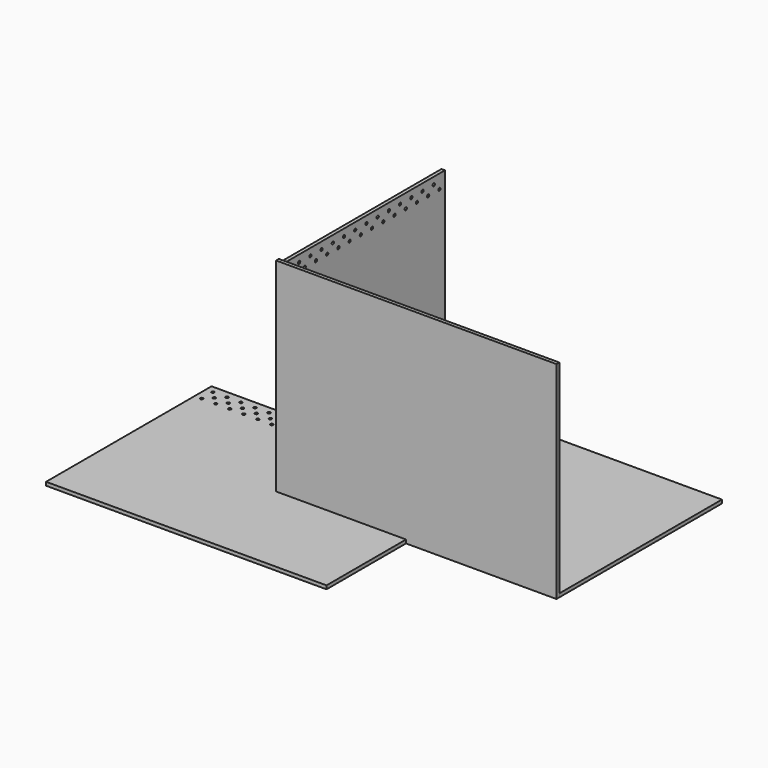
from build123d import *

# Parameters (mm, degrees)
F0_W      = 400
F0_H      = 100
F0_R      = 2
F1_DEPTH  = 5
F2_W      = 400
F2_H      = 200
F2_R      = 2
F3_DEPTH  = 5
F4_W      = 290
F4_H      = 290
F4_R      = 2
F5_DEPTH  = 5
F6_W      = 400
F6_H      = 290
F7_DEPTH  = 5
F8_W      = 400
F8_H      = 295
F9_DEPTH  = 5
F10_W     = 400
F10_H     = 295
F10_R     = 2
F11_DEPTH = 5
F13_DEPTH = 48


with BuildPart() as f1:
    # F0 (on Front) → F1 (new body)
    with BuildSketch(Plane.XZ):
        with Locations((200, 50)):
            Rectangle(F0_W, F0_H)
        with Locations((10, 90)):
            Circle(F0_R, mode=Mode.SUBTRACT)
        with Locations((20, 90)):
            Circle(F0_R, mode=Mode.SUBTRACT)
        with Locations((30, 90)):
            Circle(F0_R, mode=Mode.SUBTRACT)
        with Locations((40, 90)):
            Circle(F0_R, mode=Mode.SUBTRACT)
        with Locations((110, 90)):
            Circle(F0_R, mode=Mode.SUBTRACT)
        with Locations((120, 90)):
            Circle(F0_R, mode=Mode.SUBTRACT)
        with Locations((130, 90)):
            Circle(F0_R, mode=Mode.SUBTRACT)
        with Locations((140, 90)):
            Circle(F0_R, mode=Mode.SUBTRACT)
        with Locations((150, 90)):
            Circle(F0_R, mode=Mode.SUBTRACT)
        with Locations((160, 90)):
            Circle(F0_R, mode=Mode.SUBTRACT)
        with Locations((170, 90)):
            Circle(F0_R, mode=Mode.SUBTRACT)
        with Locations((180, 90)):
            Circle(F0_R, mode=Mode.SUBTRACT)
        with Locations((190, 90)):
            Circle(F0_R, mode=Mode.SUBTRACT)
        with Locations((200, 90)):
            Circle(F0_R, mode=Mode.SUBTRACT)
        with Locations((210, 90)):
            Circle(F0_R, mode=Mode.SUBTRACT)
        with Locations((220, 90)):
            Circle(F0_R, mode=Mode.SUBTRACT)
        with Locations((230, 90)):
            Circle(F0_R, mode=Mode.SUBTRACT)
        with Locations((240, 90)):
            Circle(F0_R, mode=Mode.SUBTRACT)
        with Locations((250, 90)):
            Circle(F0_R, mode=Mode.SUBTRACT)
        with Locations((260, 90)):
            Circle(F0_R, mode=Mode.SUBTRACT)
        with Locations((270, 90)):
            Circle(F0_R, mode=Mode.SUBTRACT)
        with Locations((280, 90)):
            Circle(F0_R, mode=Mode.SUBTRACT)
        with Locations((290, 90)):
            Circle(F0_R, mode=Mode.SUBTRACT)
        with Locations((360, 90)):
            Circle(F0_R, mode=Mode.SUBTRACT)
        with Locations((370, 90)):
            Circle(F0_R, mode=Mode.SUBTRACT)
        with Locations((380, 90)):
            Circle(F0_R, mode=Mode.SUBTRACT)
        with Locations((390, 90)):
            Circle(F0_R, mode=Mode.SUBTRACT)
    extrude(amount=F1_DEPTH)


with BuildPart() as f3:
    # F2 (on Front) → F3 (new body)
    with BuildSketch(Plane.XZ):
        with Locations((200, 100)):
            Rectangle(F2_W, F2_H)
        with Locations((20, 180)):
            Circle(F2_R, mode=Mode.SUBTRACT)
        with Locations((40, 180)):
            Circle(F2_R, mode=Mode.SUBTRACT)
        with Locations((10, 190)):
            Circle(F2_R, mode=Mode.SUBTRACT)
        with Locations((30, 190)):
            Circle(F2_R, mode=Mode.SUBTRACT)
        with Locations((60, 180)):
            Circle(F2_R, mode=Mode.SUBTRACT)
        with Locations((80, 180)):
            Circle(F2_R, mode=Mode.SUBTRACT)
        with Locations((50, 190)):
            Circle(F2_R, mode=Mode.SUBTRACT)
        with Locations((70, 190)):
            Circle(F2_R, mode=Mode.SUBTRACT)
        with Locations((90, 190)):
            Circle(F2_R, mode=Mode.SUBTRACT)
        with Locations((100, 180)):
            Circle(F2_R, mode=Mode.SUBTRACT)
        with Locations((120, 180)):
            Circle(F2_R, mode=Mode.SUBTRACT)
        with Locations((140, 180)):
            Circle(F2_R, mode=Mode.SUBTRACT)
        with Locations((110, 190)):
            Circle(F2_R, mode=Mode.SUBTRACT)
        with Locations((130, 190)):
            Circle(F2_R, mode=Mode.SUBTRACT)
        with Locations((160, 180)):
            Circle(F2_R, mode=Mode.SUBTRACT)
        with Locations((180, 180)):
            Circle(F2_R, mode=Mode.SUBTRACT)
        with Locations((150, 190)):
            Circle(F2_R, mode=Mode.SUBTRACT)
        with Locations((170, 190)):
            Circle(F2_R, mode=Mode.SUBTRACT)
        with Locations((190, 190)):
            Circle(F2_R, mode=Mode.SUBTRACT)
        with Locations((200, 180)):
            Circle(F2_R, mode=Mode.SUBTRACT)
        with Locations((220, 180)):
            Circle(F2_R, mode=Mode.SUBTRACT)
        with Locations((240, 180)):
            Circle(F2_R, mode=Mode.SUBTRACT)
        with Locations((210, 190)):
            Circle(F2_R, mode=Mode.SUBTRACT)
        with Locations((230, 190)):
            Circle(F2_R, mode=Mode.SUBTRACT)
        with Locations((260, 180)):
            Circle(F2_R, mode=Mode.SUBTRACT)
        with Locations((280, 180)):
            Circle(F2_R, mode=Mode.SUBTRACT)
        with Locations((250, 190)):
            Circle(F2_R, mode=Mode.SUBTRACT)
        with Locations((270, 190)):
            Circle(F2_R, mode=Mode.SUBTRACT)
        with Locations((290, 190)):
            Circle(F2_R, mode=Mode.SUBTRACT)
        with Locations((300, 180)):
            Circle(F2_R, mode=Mode.SUBTRACT)
        with Locations((320, 180)):
            Circle(F2_R, mode=Mode.SUBTRACT)
        with Locations((340, 180)):
            Circle(F2_R, mode=Mode.SUBTRACT)
        with Locations((310, 190)):
            Circle(F2_R, mode=Mode.SUBTRACT)
        with Locations((330, 190)):
            Circle(F2_R, mode=Mode.SUBTRACT)
        with Locations((360, 180)):
            Circle(F2_R, mode=Mode.SUBTRACT)
        with Locations((380, 180)):
            Circle(F2_R, mode=Mode.SUBTRACT)
        with Locations((350, 190)):
            Circle(F2_R, mode=Mode.SUBTRACT)
        with Locations((370, 190)):
            Circle(F2_R, mode=Mode.SUBTRACT)
        with Locations((390, 190)):
            Circle(F2_R, mode=Mode.SUBTRACT)
    extrude(amount=F3_DEPTH)


with BuildPart() as f5:
    # F4 (on Right) → F5 (new body)
    with BuildSketch(Plane.YZ):
        with Locations((145, 145)):
            Rectangle(F4_W, F4_H)
        with Locations((20, 270)):
            Circle(F4_R, mode=Mode.SUBTRACT)
        with Locations((10, 280)):
            Circle(F4_R, mode=Mode.SUBTRACT)
        with Locations((30, 280)):
            Circle(F4_R, mode=Mode.SUBTRACT)
        with Locations((40, 270)):
            Circle(F4_R, mode=Mode.SUBTRACT)
        with Locations((60, 270)):
            Circle(F4_R, mode=Mode.SUBTRACT)
        with Locations((50, 280)):
            Circle(F4_R, mode=Mode.SUBTRACT)
        with Locations((70, 280)):
            Circle(F4_R, mode=Mode.SUBTRACT)
        with Locations((80, 270)):
            Circle(F4_R, mode=Mode.SUBTRACT)
        with Locations((100, 270)):
            Circle(F4_R, mode=Mode.SUBTRACT)
        with Locations((90, 280)):
            Circle(F4_R, mode=Mode.SUBTRACT)
        with Locations((120, 270)):
            Circle(F4_R, mode=Mode.SUBTRACT)
        with Locations((140, 270)):
            Circle(F4_R, mode=Mode.SUBTRACT)
        with Locations((110, 280)):
            Circle(F4_R, mode=Mode.SUBTRACT)
        with Locations((130, 280)):
            Circle(F4_R, mode=Mode.SUBTRACT)
        with Locations((160, 270)):
            Circle(F4_R, mode=Mode.SUBTRACT)
        with Locations((180, 270)):
            Circle(F4_R, mode=Mode.SUBTRACT)
        with Locations((150, 280)):
            Circle(F4_R, mode=Mode.SUBTRACT)
        with Locations((170, 280)):
            Circle(F4_R, mode=Mode.SUBTRACT)
        with Locations((200, 270)):
            Circle(F4_R, mode=Mode.SUBTRACT)
        with Locations((190, 280)):
            Circle(F4_R, mode=Mode.SUBTRACT)
        with Locations((210, 280)):
            Circle(F4_R, mode=Mode.SUBTRACT)
        with Locations((220, 270)):
            Circle(F4_R, mode=Mode.SUBTRACT)
        with Locations((240, 270)):
            Circle(F4_R, mode=Mode.SUBTRACT)
        with Locations((230, 280)):
            Circle(F4_R, mode=Mode.SUBTRACT)
        with Locations((250, 280)):
            Circle(F4_R, mode=Mode.SUBTRACT)
        with Locations((260, 270)):
            Circle(F4_R, mode=Mode.SUBTRACT)
        with Locations((280, 270)):
            Circle(F4_R, mode=Mode.SUBTRACT)
        with Locations((270, 280)):
            Circle(F4_R, mode=Mode.SUBTRACT)
    extrude(amount=F5_DEPTH)


with BuildPart() as f7:
    # F6 (on Top) → F7 (new body)
    with BuildSketch(Plane.XY):
        with Locations((200, 145)):
            Rectangle(F6_W, F6_H)
    extrude(amount=F7_DEPTH)


with BuildPart() as f9:
    # F8 (on Front) → F9 (new body)
    with BuildSketch(Plane.XZ):
        with Locations((200, 147.5)):
            Rectangle(F8_W, F8_H)
    extrude(amount=F9_DEPTH)


with BuildPart() as f11:
    # F10 (on Top) → F11 (new body)
    with BuildSketch(Plane.XY):
        with Locations((-14.562618, 0.748159)):
            Rectangle(F10_W, F10_H)
        with Locations((-204.562618, 118.248159)):
            Circle(F10_R, mode=Mode.SUBTRACT)
        with Locations((-194.562618, 128.248159)):
            Circle(F10_R, mode=Mode.SUBTRACT)
        with Locations((-184.562618, 118.248159)):
            Circle(F10_R, mode=Mode.SUBTRACT)
        with Locations((-174.562618, 128.248159)):
            Circle(F10_R, mode=Mode.SUBTRACT)
        with Locations((-204.562618, 138.248159)):
            Circle(F10_R, mode=Mode.SUBTRACT)
        with Locations((-184.562618, 138.248159)):
            Circle(F10_R, mode=Mode.SUBTRACT)
        with Locations((-164.562618, 118.248159)):
            Circle(F10_R, mode=Mode.SUBTRACT)
        with Locations((-144.562618, 118.248159)):
            Circle(F10_R, mode=Mode.SUBTRACT)
        with Locations((-154.562618, 128.248159)):
            Circle(F10_R, mode=Mode.SUBTRACT)
        with Locations((-124.562618, 118.248159)):
            Circle(F10_R, mode=Mode.SUBTRACT)
        with Locations((-134.562618, 128.248159)):
            Circle(F10_R, mode=Mode.SUBTRACT)
        with Locations((-114.562618, 128.248159)):
            Circle(F10_R, mode=Mode.SUBTRACT)
        with Locations((-164.562618, 138.248159)):
            Circle(F10_R, mode=Mode.SUBTRACT)
        with Locations((-144.562618, 138.248159)):
            Circle(F10_R, mode=Mode.SUBTRACT)
        with Locations((-124.562618, 138.248159)):
            Circle(F10_R, mode=Mode.SUBTRACT)
        with Locations((-104.562618, 118.248159)):
            Circle(F10_R, mode=Mode.SUBTRACT)
        with Locations((-94.562618, 128.248159)):
            Circle(F10_R, mode=Mode.SUBTRACT)
        with Locations((-84.562618, 118.248159)):
            Circle(F10_R, mode=Mode.SUBTRACT)
        with Locations((-64.562618, 118.248159)):
            Circle(F10_R, mode=Mode.SUBTRACT)
        with Locations((-74.562618, 128.248159)):
            Circle(F10_R, mode=Mode.SUBTRACT)
        with Locations((-104.562618, 138.248159)):
            Circle(F10_R, mode=Mode.SUBTRACT)
        with Locations((-84.562618, 138.248159)):
            Circle(F10_R, mode=Mode.SUBTRACT)
        with Locations((-64.562618, 138.248159)):
            Circle(F10_R, mode=Mode.SUBTRACT)
        with Locations((-44.562618, 118.248159)):
            Circle(F10_R, mode=Mode.SUBTRACT)
        with Locations((-54.562618, 128.248159)):
            Circle(F10_R, mode=Mode.SUBTRACT)
        with Locations((-24.562618, 118.248159)):
            Circle(F10_R, mode=Mode.SUBTRACT)
        with Locations((-34.562618, 128.248159)):
            Circle(F10_R, mode=Mode.SUBTRACT)
        with Locations((-14.562618, 128.248159)):
            Circle(F10_R, mode=Mode.SUBTRACT)
        with Locations((-44.562618, 138.248159)):
            Circle(F10_R, mode=Mode.SUBTRACT)
        with Locations((-24.562618, 138.248159)):
            Circle(F10_R, mode=Mode.SUBTRACT)
        with Locations((-4.562618, 118.248159)):
            Circle(F10_R, mode=Mode.SUBTRACT)
        with Locations((5.437382, 128.248159)):
            Circle(F10_R, mode=Mode.SUBTRACT)
        with Locations((15.437382, 118.248159)):
            Circle(F10_R, mode=Mode.SUBTRACT)
        with Locations((35.437382, 118.248159)):
            Circle(F10_R, mode=Mode.SUBTRACT)
        with Locations((25.437382, 128.248159)):
            Circle(F10_R, mode=Mode.SUBTRACT)
        with Locations((-4.562618, 138.248159)):
            Circle(F10_R, mode=Mode.SUBTRACT)
        with Locations((15.437382, 138.248159)):
            Circle(F10_R, mode=Mode.SUBTRACT)
        with Locations((35.437382, 138.248159)):
            Circle(F10_R, mode=Mode.SUBTRACT)
        with Locations((55.437382, 118.248159)):
            Circle(F10_R, mode=Mode.SUBTRACT)
        with Locations((45.437382, 128.248159)):
            Circle(F10_R, mode=Mode.SUBTRACT)
        with Locations((75.437382, 118.248159)):
            Circle(F10_R, mode=Mode.SUBTRACT)
        with Locations((65.437382, 128.248159)):
            Circle(F10_R, mode=Mode.SUBTRACT)
        with Locations((85.437382, 128.248159)):
            Circle(F10_R, mode=Mode.SUBTRACT)
        with Locations((55.437382, 138.248159)):
            Circle(F10_R, mode=Mode.SUBTRACT)
        with Locations((75.437382, 138.248159)):
            Circle(F10_R, mode=Mode.SUBTRACT)
        with Locations((95.437382, 118.248159)):
            Circle(F10_R, mode=Mode.SUBTRACT)
        with Locations((105.437382, 128.248159)):
            Circle(F10_R, mode=Mode.SUBTRACT)
        with Locations((115.437382, 118.248159)):
            Circle(F10_R, mode=Mode.SUBTRACT)
        with Locations((135.437382, 118.248159)):
            Circle(F10_R, mode=Mode.SUBTRACT)
        with Locations((125.437382, 128.248159)):
            Circle(F10_R, mode=Mode.SUBTRACT)
        with Locations((95.437382, 138.248159)):
            Circle(F10_R, mode=Mode.SUBTRACT)
        with Locations((115.437382, 138.248159)):
            Circle(F10_R, mode=Mode.SUBTRACT)
        with Locations((135.437382, 138.248159)):
            Circle(F10_R, mode=Mode.SUBTRACT)
        with Locations((155.437382, 118.248159)):
            Circle(F10_R, mode=Mode.SUBTRACT)
        with Locations((145.437382, 128.248159)):
            Circle(F10_R, mode=Mode.SUBTRACT)
        with Locations((175.437382, 118.248159)):
            Circle(F10_R, mode=Mode.SUBTRACT)
        with Locations((165.437382, 128.248159)):
            Circle(F10_R, mode=Mode.SUBTRACT)
        with Locations((155.437382, 138.248159)):
            Circle(F10_R, mode=Mode.SUBTRACT)
        with Locations((175.437382, 138.248159)):
            Circle(F10_R, mode=Mode.SUBTRACT)
    extrude(amount=F11_DEPTH)


with BuildPart() as f13:
    # F12 (on Right) → F13 (new body)
    with BuildSketch(Plane.YZ):
        with BuildLine():
            Line((-18.39233, 0.755969), (-18.39233, 0))
            Line((-18.39233, 0), (19.60767, 0))
            Line((19.60767, 0), (19.60767, 0.755969))
            ThreePointArc((19.60767, 0.755969), (19.409963, 1.3529), (18.895018, 1.713796))
            Line((18.895018, 1.713796), (15.310565, 2.789131))
            ThreePointArc((15.310565, 2.789131), (14.599891, 2.947002), (13.873826, 3))
            Line((13.873826, 3), (2.291288, 3))
            ThreePointArc((2.291288, 3), (0, 4.5), (-2.291288, 3))
            Line((-2.291288, 3), (-12.658486, 3))
            ThreePointArc((-12.658486, 3), (-13.384552, 2.947002), (-14.095225, 2.789131))
            Line((-14.095225, 2.789131), (-17.679678, 1.713796))
            ThreePointArc((-17.679678, 1.713796), (-18.194623, 1.3529), (-18.39233, 0.755969))
        make_face()
    extrude(amount=F13_DEPTH)


solid = Compound([f1.part, f3.part, f5.part, f7.part, f9.part, f11.part, f13.part])
